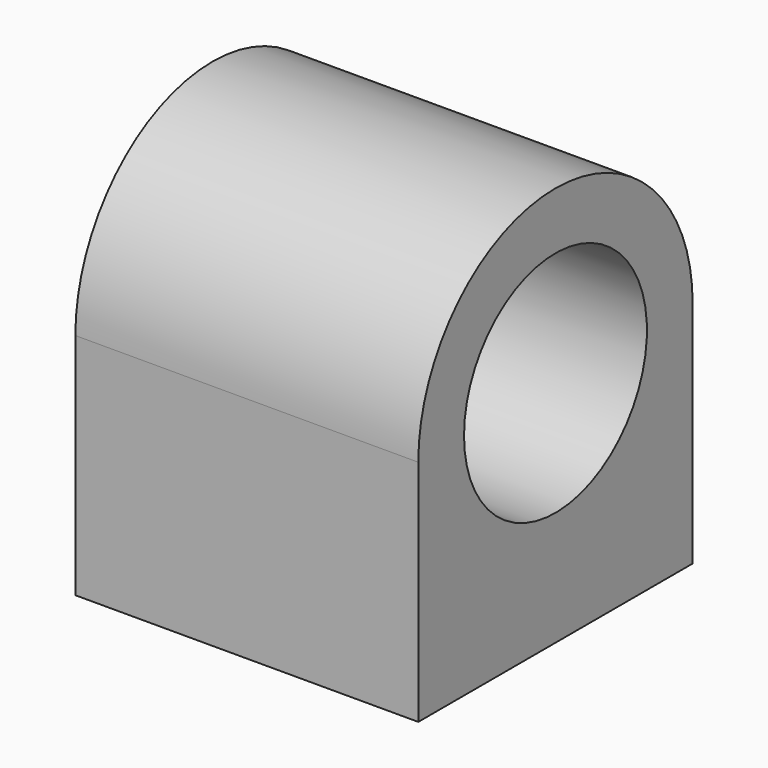
from build123d import *

# Parameters (mm, degrees)
F1_DEPTH = 19.05
F2_R     = 3.175
F3_DEPTH = 12.7


with BuildPart() as f1:
    # F0 (on Right) → F1 (new body, symmetric)
    with BuildSketch(Plane.YZ):
        with BuildLine():
            Line((19.05, 0), (12.7, 0))
            ThreePointArc((12.7, 0), (0, -12.7), (-12.7, 0))
            Line((-12.7, 0), (-19.05, 0))
            ThreePointArc((-19.05, 0), (0, -19.05), (19.05, 0))
        make_face()
        with BuildLine():
            ThreePointArc((-12.7, 0), (0, 12.7), (12.7, 0))
            Line((12.7, 0), (19.05, 0))
            ThreePointArc((19.05, 0), (0, 19.05), (-19.05, 0))
            Line((-19.05, 0), (-12.7, 0))
        make_face()
        with BuildLine():
            Line((19.05, -25.4), (19.05, 0))
            ThreePointArc((19.05, 0), (0, -19.05), (-19.05, 0))
            Line((-19.05, 0), (-19.05, -25.4))
            Line((-19.05, -25.4), (19.05, -25.4))
        make_face()
    extrude(amount=F1_DEPTH, both=True)

    # F2 (on face) → F3 (cut)
    with BuildSketch(Plane(origin=(0, 0, -25.4), x_dir=(1, 0, 0), z_dir=(0, 0, -1))):
        with Locations((0, 14.2748)):
            Circle(F2_R)
        with Locations((0, -14.2748)):
            Circle(F2_R)
    extrude(amount=-F3_DEPTH, mode=Mode.SUBTRACT)


solid = f1.part
